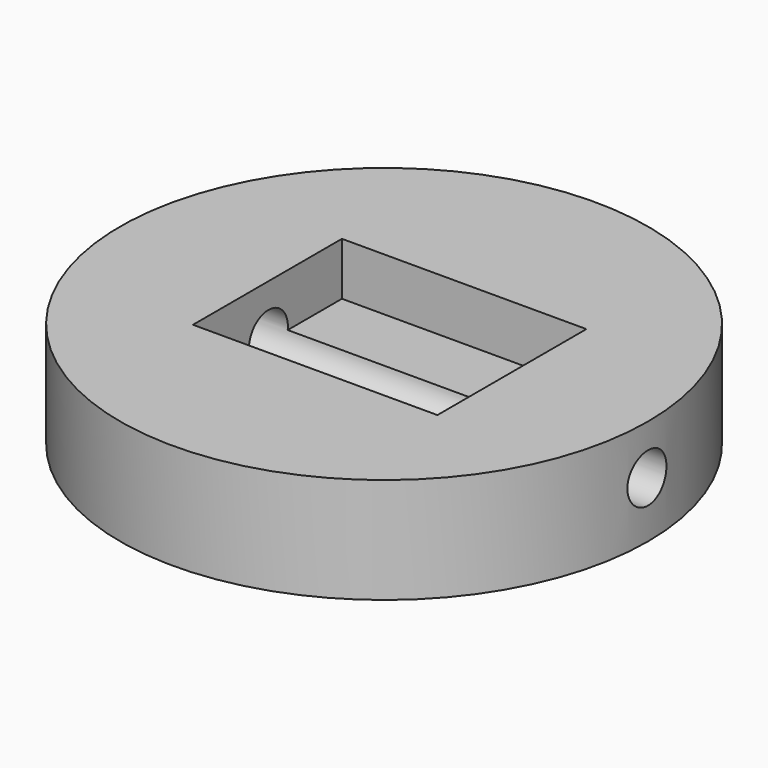
from build123d import *

# Parameters (mm, degrees)
F0_R     = 63.5
F1_DEPTH = 25.4
F2_W     = 58.809195
F2_H     = 44.798226
F3_DEPTH = 12.7
F4_R     = 5.867583
F5_DEPTH = 127


with BuildPart() as f1:
    # F0 (on Top) → F1 (new body)
    with BuildSketch(Plane.XY):
        Circle(F0_R)
    extrude(amount=F1_DEPTH)

    # F2 (on face) → F3 (cut)
    with BuildSketch(Plane.XY.offset(25.4)):
        with Locations((1.567016, -0.276532)):
            Rectangle(F2_W, F2_H)
    extrude(amount=-F3_DEPTH, mode=Mode.SUBTRACT)

    # F4 (on Right) → F5 (cut, symmetric)
    with BuildSketch(Plane.YZ):
        with Locations((0, 13.457903)):
            Circle(F4_R)
    extrude(amount=F5_DEPTH, both=True, mode=Mode.SUBTRACT)


solid = f1.part
